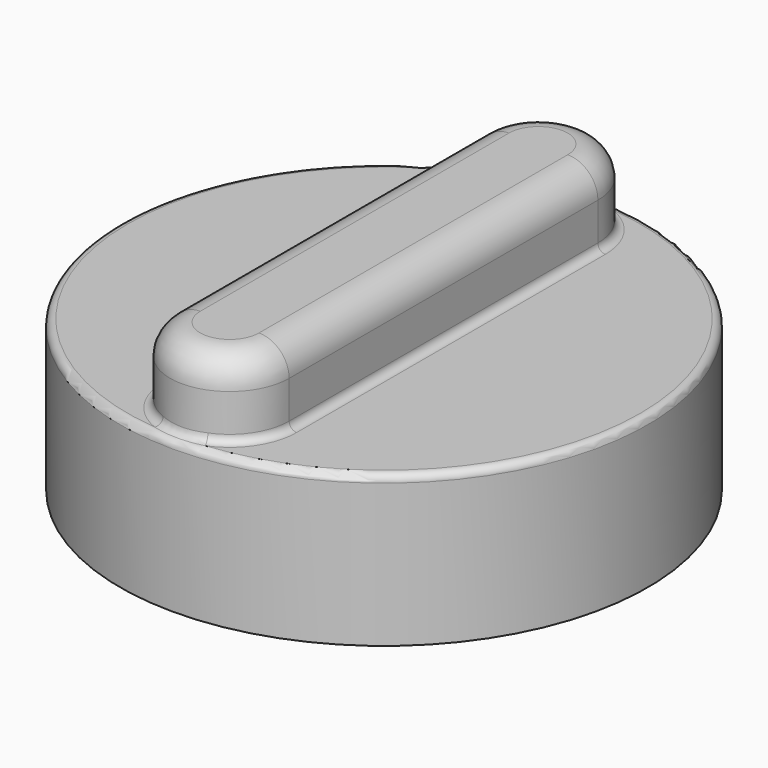
from build123d import *

# Parameters (mm, degrees)
SKETCH048_R  = 17.5
PAD032_DEPTH = 10
PAD033_DEPTH = 5
FILLET011_R  = 0.5
FILLET012_R  = 0.5
FILLET013_R  = 2


with BuildPart() as part:
    # Sketch048 (on DatumPlane) → Pad032 (new body)
    with BuildSketch(Plane(origin=(0, 15.789559, -564.544271), x_dir=(0, 1, 0), z_dir=(0, 0, 1))):
        Circle(SKETCH048_R)
    extrude(amount=PAD032_DEPTH)

    # Sketch049 (on Face3 of Pad032) → Pad033 (join)
    with BuildSketch(Plane(origin=(0, 15.789559, -554.544271), x_dir=(0, 1, 0), z_dir=(0, 0, 1))):
        with BuildLine():
            ThreePointArc((-12.797492, 3.946719), (-16.744211, 0), (-12.797492, -3.946719))
            Line((-12.797492, -3.946719), (12.797492, -3.946719))
            ThreePointArc((12.797492, -3.946719), (16.744211, 0), (12.797492, 3.946719))
            Line((-12.797492, 3.946719), (12.797492, 3.946719))
        make_face()
    extrude(amount=PAD033_DEPTH)

    # Fillet011
    fillet011_edges = [part.edges().sort_by_distance(p)[0] for p in [
        (0, -1.710441, -554.544271),
    ]]
    fillet(fillet011_edges, radius=FILLET011_R)

    # Fillet012
    fillet012_edges = [part.edges().sort_by_distance(p)[0] for p in [
        (-3.946719, 15.789559, -554.544271),
    ]]
    fillet(fillet012_edges, radius=FILLET012_R)

    # Fillet013
    fillet013_edges = [part.edges().sort_by_distance(p)[0] for p in [
        (0, 32.53377, -549.544271),
    ]]
    fillet(fillet013_edges, radius=FILLET013_R)


with BuildPart() as part_1:
    # Clone007 placement: moved
    add(part.part.moved(Location((0, 0, 599.54))))


solid = part_1.part
